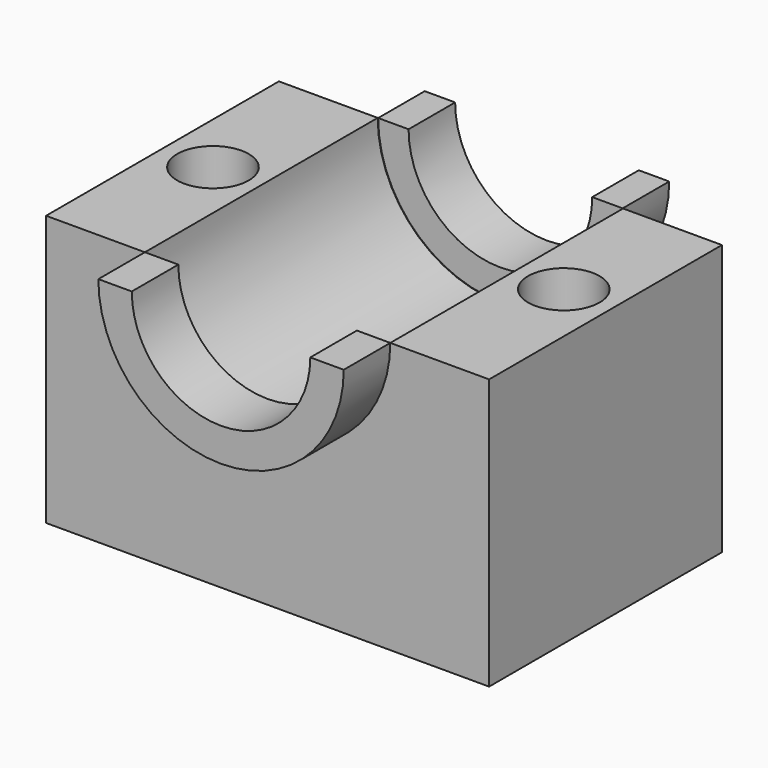
from build123d import *

# Parameters (mm, degrees)
F0_W     = 193.350047
F0_H     = 118.043102
F1_DEPTH = 127
F3_DEPTH = 127
F5_DEPTH = 25.4
F7_DEPTH = 25.4
F8_R     = 15.632248
F8_R_2   = 15.619169
F9_DEPTH = 254


with BuildPart() as f1:
    # F0 (on Front) → F1 (new body)
    with BuildSketch(Plane.XZ):
        with Locations((4.978939, -28.940257)):
            Rectangle(F0_W, F0_H)
    extrude(amount=-F1_DEPTH)

    # F2 (on face) → F3 (cut)
    with BuildSketch(Plane(origin=(0, 127, 0), x_dir=(-1, 0, 0), z_dir=(0, 1, 0))):
        with BuildLine():
            Line((48.570371, 30.081294), (-58.52825, 30.081294))
            ThreePointArc((-58.52825, 30.081294), (-4.97894, -23.468016), (48.570371, 30.081294))
        make_face()
    extrude(amount=-F3_DEPTH, mode=Mode.SUBTRACT)

    # F8 (on face) → F9 (cut)
    with BuildSketch(Plane.XY.offset(30.081294)):
        with Locations((-69.665216, 63.5)):
            Circle(F8_R)
        with Locations((79.990104, 67.818604)):
            Circle(F8_R_2)
        with Locations((-69.665216, 63.5)):
            Circle(F8_R)
        with Locations((79.990104, 67.818604)):
            Circle(F8_R_2)
    extrude(amount=-F9_DEPTH, mode=Mode.SUBTRACT)


with BuildPart() as f5:
    # F4 (on face) → F5 (new body)
    with BuildSketch(Plane(origin=(0, 127, 0), x_dir=(-1, 0, 0), z_dir=(0, 1, 0))):
        with BuildLine():
            Line((-45.051298, 30.081294), (-58.328841, 30.081294))
            ThreePointArc((-58.328841, 30.081294), (-4.97894, -23.268607), (48.370961, 30.081294))
            Line((48.370961, 30.081294), (35.093418, 30.081294))
            ThreePointArc((35.093418, 30.081294), (-4.97894, -9.991064), (-45.051298, 30.081294))
        make_face()
    extrude(amount=F5_DEPTH)


with BuildPart() as f7:
    # F6 (on face) → F7 (new body)
    with BuildSketch(Plane.XZ):
        with BuildLine():
            ThreePointArc((43.937512, 30.081294), (4.97894, -8.877278), (-33.979632, 30.081294))
            Line((-33.979632, 30.081294), (-48.570371, 30.081294))
            ThreePointArc((-48.570371, 30.081294), (4.97894, -23.468016), (58.52825, 30.081294))
            Line((58.52825, 30.081294), (43.937512, 30.081294))
        make_face()
    extrude(amount=F7_DEPTH)


solid = Compound([f1.part, f5.part, f7.part])
